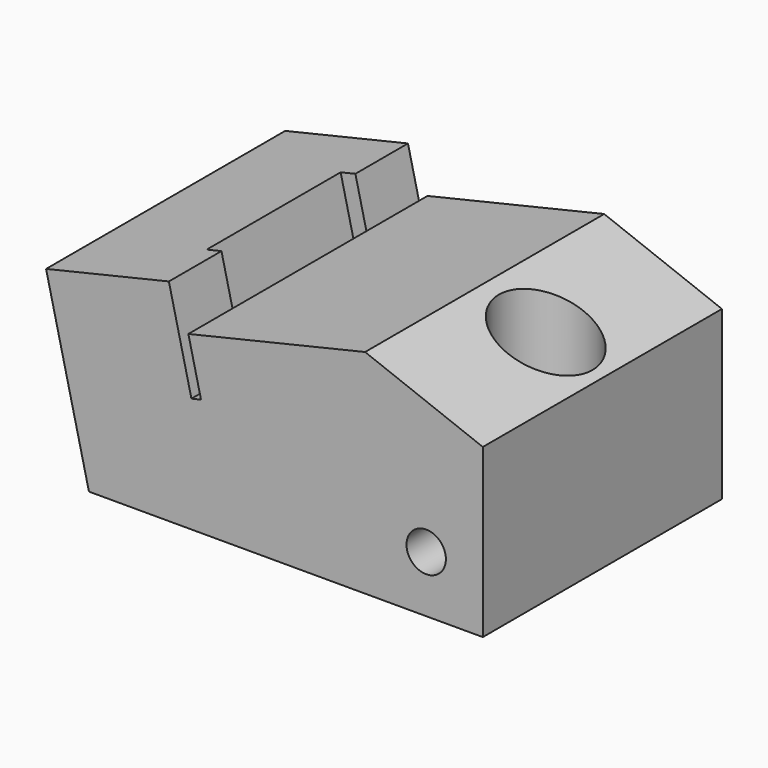
from build123d import *

# Parameters (mm, degrees)
F1_DEPTH = 15.175
F2_R     = 4.75
F3_DEPTH = 21.601
F4_W     = 1.54
F4_H     = 17
F5_DEPTH = 10
F6_R     = 2
F7_DEPTH = 10.8675781151


with BuildPart() as f1:
    # F0 (on Front) → F1 (new body, symmetric)
    with BuildSketch(Plane.XZ):
        Polygon((-20, 0), (20, 0), (20, 17), (8.0444113487, 21.6), (-9.9007201474, 17.3794053198), (-8.6173364513, 11.9227123817), (-9.5907752539, 11.6937650133), (-11.8802489381, 21.4281530397), (-24.35, 18.4953372502), align=None)
    extrude(amount=F1_DEPTH, both=True)

    # F2 (on face) → F3 (cut, through all)
    with BuildSketch(Plane(origin=(0, 0, 0), x_dir=(1, 0, 0), z_dir=(0, 0, -1))):
        with Locations((14.25, 0)):
            Circle(F2_R)
    extrude(amount=-F3_DEPTH, mode=Mode.SUBTRACT)

    # F4 (on face) → F5 (cut)
    with BuildSketch(Plane(origin=(-5.3983379501, 0, 22.9526622939), x_dir=(0.9734388026, 0, 0.2289473684), z_dir=(-0.2289473684, 0, 0.9734388026))):
        with Locations((-7.4287760529, 0)):
            Rectangle(F4_W, F4_H)
    extrude(amount=-F5_DEPTH, mode=Mode.SUBTRACT)

    # F6 (on face) → F7 (cut, through all)
    with BuildSketch(Plane.XZ.offset(15.175)):
        with Locations((14.25, 5.75)):
            Circle(F6_R)
    extrude(amount=-F7_DEPTH, mode=Mode.SUBTRACT)


solid = f1.part
